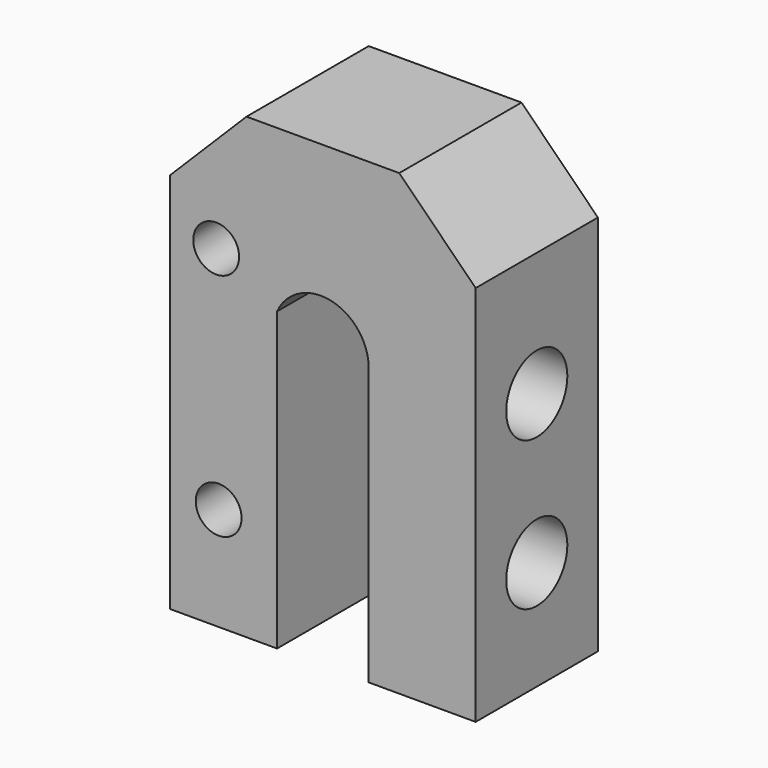
from build123d import *

# Parameters (mm, degrees)
F1_DEPTH = 10
F2_SIZE  = 5
F3_R     = 2.5
F4_DEPTH = 10
F5_R     = 1.5
F6_DEPTH = 12


with BuildPart() as f1:
    # F0 (on Front) → F1 (new body)
    with BuildSketch(Plane.XZ):
        with BuildLine():
            Line((-7, 0), (0, 0))
            Line((0, 0), (0, 30))
            Line((0, 30), (-20, 30))
            Line((-20, 30), (-20, 0))
            Line((-20, 0), (-13, 0))
            Line((-13, 0), (-13, 19.427699))
            ThreePointArc((-13, 19.427699), (-9.474739, 21.19446), (-7, 18.124513))
            Line((-7, 18.124513), (-7, 0))
        make_face()
    extrude(amount=F1_DEPTH)

    # F2
    f2_edges = [f1.edges().sort_by_distance(p)[0] for p in [
        (0, -5, 30),
        (-20, -5, 30),
    ]]
    chamfer(f2_edges, length=F2_SIZE)

    # F3 (on face) → F4 (cut)
    with BuildSketch(Plane.YZ):
        with Locations((-5, 16.878698)):
            Circle(F3_R)
        with Locations((-5, 7.148258)):
            Circle(F3_R)
    extrude(amount=-F4_DEPTH, mode=Mode.SUBTRACT)

    # F5 (on Front) → F6 (cut)
    with BuildSketch(Plane.XZ):
        with Locations((-16.984137, 21.757886)):
            Circle(F5_R)
        with Locations((-16.821511, 6.757886)):
            Circle(F5_R)
    extrude(amount=F6_DEPTH, mode=Mode.SUBTRACT)


solid = f1.part
